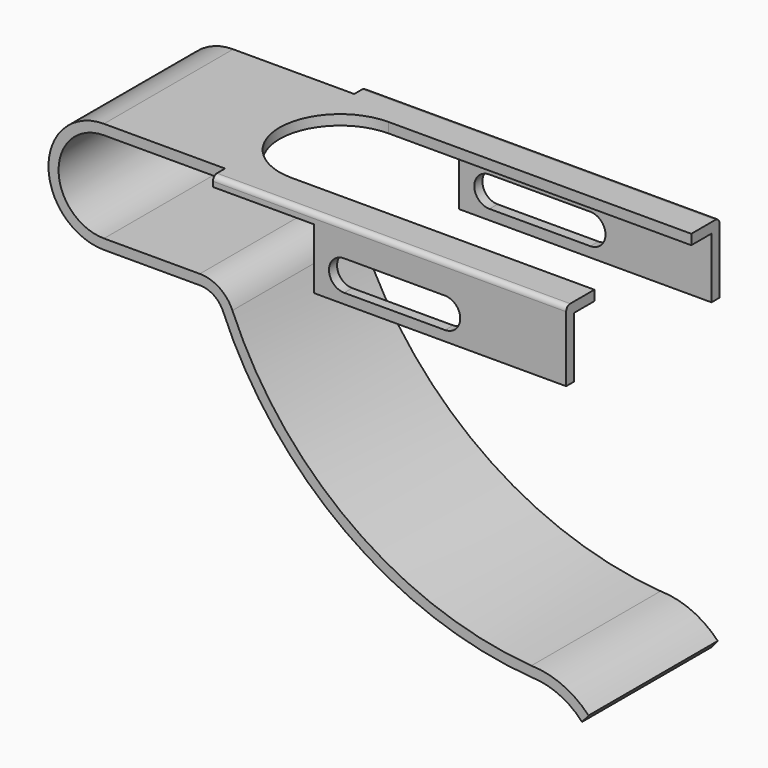
from build123d import *

# Parameters (mm, degrees)
F1_DEPTH  = 16
F2_W      = 70
F2_H      = 3
F3_DEPTH  = 2
F4_W      = 50
F4_H      = 14
F5_DEPTH  = 2
F6_R      = 1
F9_DEPTH  = 2
F11_DEPTH = 38.001


with BuildPart() as f1:
    # F0 (on Front) → F1 (new body)
    with BuildSketch(Plane.XZ):
        with BuildLine():
            Line((94, 11), (0, 11))
            ThreePointArc((0, 11), (-11, 0), (0, -11))
            Line((0, -11), (19, -11))
            ThreePointArc((19, -11), (21.768112, -11.836161), (23.61039, -14.064979))
            ThreePointArc((23.61039, -14.064979), (47.922303, -44.625558), (84.612543, -57.998828))
            ThreePointArc((84.612543, -57.998828), (90.151136, -59.22276), (94.749536, -62.543715))
            Line((94.749536, -62.543715), (96.044866, -61))
            ThreePointArc((96.044866, -61), (90.877978, -57.357164), (84.703426, -56))
            ThreePointArc((84.703426, -56), (49.067219, -42.985418), (25.454545, -13.29097))
            ThreePointArc((25.454545, -13.29097), (22.875357, -10.170626), (19, -9))
            Line((19, -9), (0, -9))
            ThreePointArc((0, -9), (-9, 0), (0, 9))
            Line((0, 9), (94, 9))
            Line((94, 9), (94, 11))
        make_face()
    extrude(amount=F1_DEPTH)

    # F2 (on face) → F3 (join)
    with BuildSketch(Plane.XY.offset(11)):
        with Locations((59, -17.5)):
            Rectangle(F2_W, F2_H)
    extrude(amount=-F3_DEPTH)

    # F4 (on face) → F5 (join)
    with BuildSketch(Plane.XZ.offset(19)):
        with Locations((69, 4)):
            Rectangle(F4_W, F4_H)
    extrude(amount=-F5_DEPTH)

    # F6
    f6_edges = [f1.edges().sort_by_distance(p)[0] for p in [
        (59, -19, 11),
    ]]
    fillet(f6_edges, radius=F6_R)

    # F7: F1 across plane


with BuildPart() as f1_1:
    add(f1.part)
    add(f1.part.mirror(Plane.XZ))

    # F8 (on face) → F9 (cut)
    with BuildSketch(Plane.XY.offset(11)):
        with BuildLine():
            Line((94, 12), (34, 12))
            ThreePointArc((34, 12), (22, 0), (34, -12))
            Line((34, -12), (94, -12))
            Line((94, -12), (94, 12))
        make_face()
    extrude(amount=-F9_DEPTH, mode=Mode.SUBTRACT)

    # F10 (on face) → F11 (cut, through all)
    with BuildSketch(Plane.XZ.offset(19)):
        with BuildLine():
            ThreePointArc((50, 5), (47, 2), (50, -1))
            Line((50, -1), (70, -1))
            ThreePointArc((70, -1), (73, 2), (70, 5))
            Line((70, 5), (50, 5))
        make_face()
    extrude(amount=-F11_DEPTH, mode=Mode.SUBTRACT)


solid = f1_1.part
